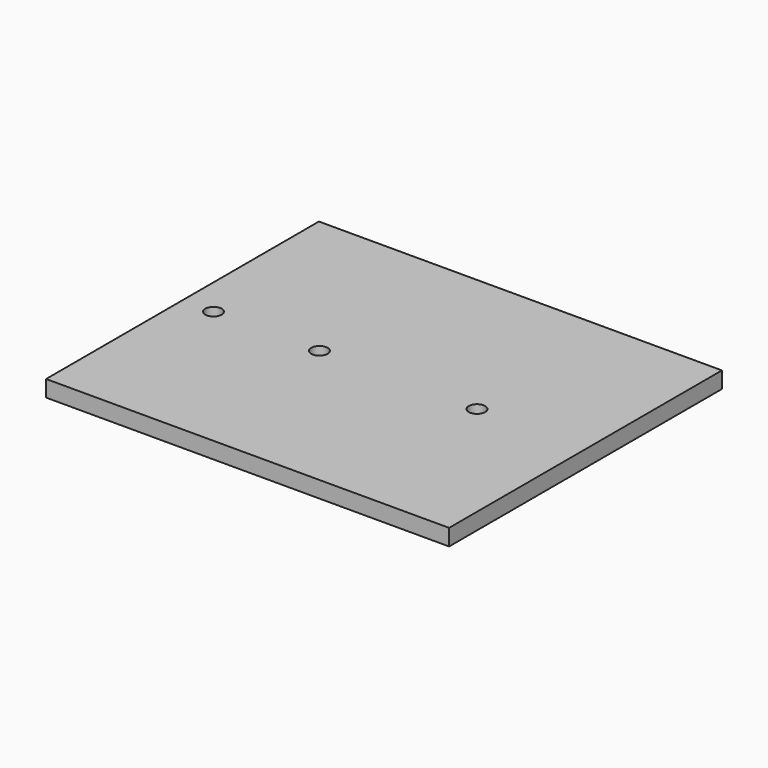
from build123d import *

# Parameters (mm, degrees)
F0_W     = 78
F0_H     = 66
F0_R     = 1.5875
F1_DEPTH = 3.175


with BuildPart() as f1:
    # F0 (on Top) → F1 (new body)
    with BuildSketch(Plane.XY):
        with Locations((39, 33)):
            Rectangle(F0_W, F0_H)
        with Locations((6, 33)):
            Circle(F0_R, mode=Mode.SUBTRACT)
        with Locations((26.5, 33)):
            Circle(F0_R, mode=Mode.SUBTRACT)
        with Locations((57, 33)):
            Circle(F0_R, mode=Mode.SUBTRACT)
    extrude(amount=F1_DEPTH)


solid = f1.part
